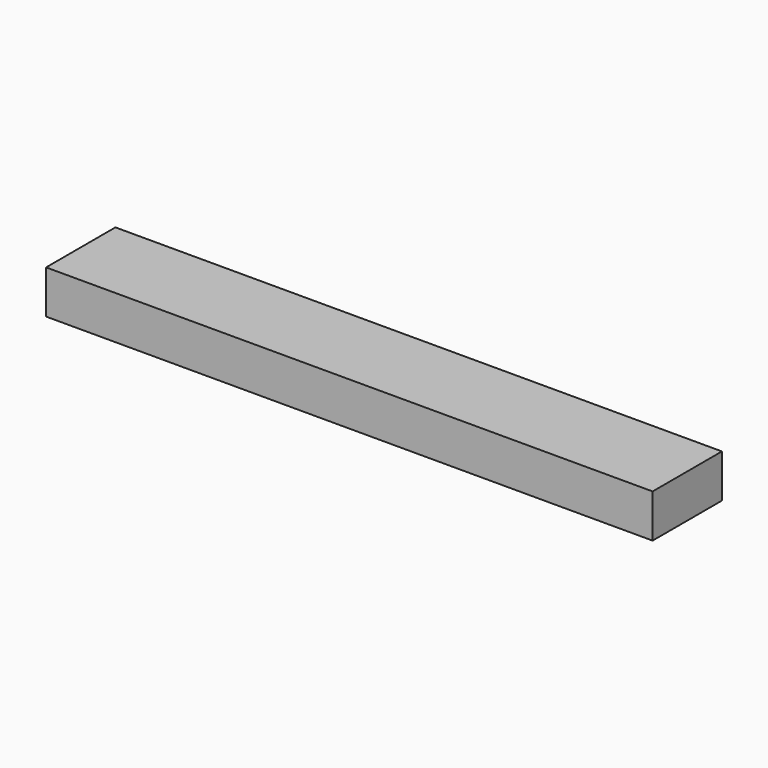
from build123d import *

# Parameters (mm, degrees)
BEAM_W     = 140
BEAM_H     = 20
BEAM_DEPTH = 10


with BuildPart() as part:
    # Beam → Beam (new body)
    with BuildSketch(Plane.XY):
        with Locations((70, 10)):
            Rectangle(BEAM_W, BEAM_H)
    extrude(amount=BEAM_DEPTH)


solid = part.part
